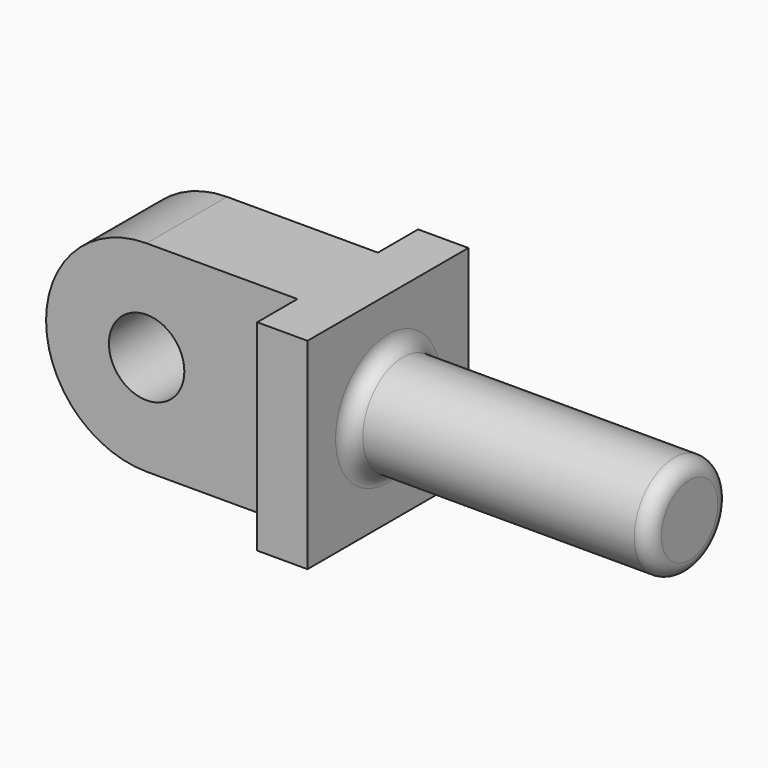
from build123d import *

# Parameters (mm, degrees)
F0_R     = 12.7
F1_DEPTH = 76.2
F3_DEPTH = 25.4
F4_W     = 25.4
F4_H     = 50.8
F5_DEPTH = 63.5
F7_DEPTH = 38.101
F6_R     = 9.525
F8_DEPTH = 38.101
F9_R     = 3.81


with BuildPart() as f1:
    # F0 (on Right) → F1 (new body)
    with BuildSketch(Plane.YZ):
        Circle(F0_R)
    extrude(amount=F1_DEPTH)

    # F2 (on Front) → F3 (join, symmetric)
    with BuildSketch(Plane.XZ):
        Polygon((0, -25.4), (0, 0), (0, 25.4), (-12.7, 25.4), (-12.7, -25.4), align=None)
    extrude(amount=F3_DEPTH, both=True)

    # F4 (on face) → F5 (join)
    with BuildSketch(Plane(origin=(-12.7, 0, 0), x_dir=(0, -1, 0), z_dir=(-1, 0, 0))):
        Rectangle(F4_W, F4_H)
    extrude(amount=F5_DEPTH)

    # F6 (on face) → F7 (cut, through all)
    with BuildSketch(Plane.XZ.offset(12.7)):
        with BuildLine():
            Line((-76.2, 25.4), (-76.2, 0))
            ThreePointArc((-76.2, 0), (-68.760512, 17.960512), (-50.8, 25.4))
            Line((-50.8, 25.4), (-76.2, 25.4))
        make_face()
        with BuildLine():
            ThreePointArc((-50.8, -25.4), (-68.760512, -17.960512), (-76.2, 0))
            Line((-76.2, 0), (-76.2, -25.4))
            Line((-76.2, -25.4), (-50.8, -25.4))
        make_face()
    extrude(amount=-F7_DEPTH, mode=Mode.SUBTRACT)

    # F6 (on face) → F8 (cut, through all)
    with BuildSketch(Plane.XZ.offset(12.7)):
        with Locations((-50.8, 0)):
            Circle(F6_R)
    extrude(amount=-F8_DEPTH, mode=Mode.SUBTRACT)

    # F9
    f9_edges = [f1.edges().sort_by_distance(p)[0] for p in [
        (76.2, -12.7, 0),
        (0, -12.7, 0),
    ]]
    fillet(f9_edges, radius=F9_R)


solid = f1.part
